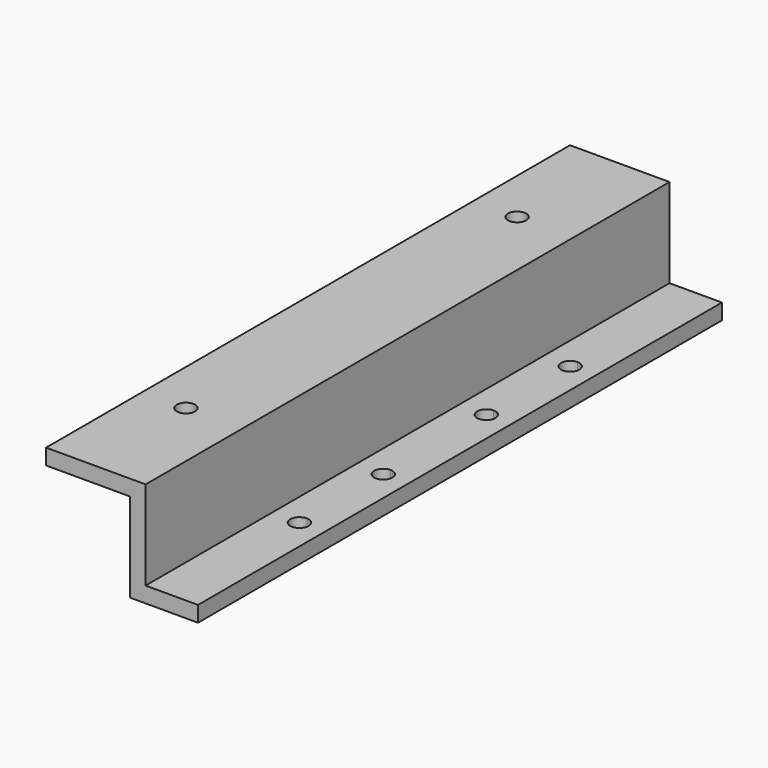
from build123d import *

# Parameters (mm, degrees)
F3_DEPTH = 3
F4_DEPTH = 3
F0_W     = 1
F0_H     = 3
F5_DEPTH = 125
F7_DEPTH = 3


with BuildPart() as f3:
    # F1 (on Top) → F3 (new body)
    with BuildSketch(Plane.XY):
        Polygon((-19, 0), (-2.7684667148, 0), (-2.7684667148, 125), (-19, 125), (-19, 102), (-19, 23), align=None)
        with BuildLine():
            ThreePointArc((-8.95, 23), (-10.7, 21.25), (-12.45, 23))
            ThreePointArc((-12.45, 23), (-10.7, 24.75), (-8.95, 23))
        make_face(mode=Mode.SUBTRACT)
        with BuildLine():
            ThreePointArc((-8.95, 102), (-10.7, 100.25), (-12.45, 102))
            ThreePointArc((-12.45, 102), (-10.7, 103.75), (-8.95, 102))
        make_face(mode=Mode.SUBTRACT)
    extrude(amount=F3_DEPTH)

    # F2 (on Right) → F4 (join)
    with BuildSketch(Plane.YZ):
        Polygon((0, 3), (0, 0), (0, -17), (125, -17), (125, 3), align=None)
    extrude(amount=-F4_DEPTH)

    # F0 (on Front) → F5 (join)
    with BuildSketch(Plane.XZ):
        with Locations((0.5, -15.5)):
            Rectangle(F0_W, F0_H)
    extrude(amount=-F5_DEPTH)

    # F6 (on face) → F7 (join)
    with BuildSketch(Plane.XY.offset(-14)):
        with BuildLine():
            Line((1, 125), (1, 0))
            Line((1, 0), (5.2, 0))
            Line((5.2, 0), (5.2, 28.45))
            ThreePointArc((5.2, 28.45), (3.45, 30.2), (5.2, 31.95))
            Line((5.2, 31.95), (5.2, 48.45))
            ThreePointArc((5.2, 48.45), (3.45, 50.2), (5.2, 51.95))
            Line((5.2, 51.95), (5.2, 73.05))
            ThreePointArc((5.2, 73.05), (3.45, 74.8), (5.2, 76.55))
            Line((5.2, 76.55), (5.2, 93.05))
            ThreePointArc((5.2, 93.05), (3.45, 94.8), (5.2, 96.55))
            Line((5.2, 96.55), (5.2, 125))
            Line((5.2, 125), (1, 125))
        make_face()
        with BuildLine():
            Line((5.2, 28.45), (5.2, 0))
            Line((5.2, 0), (10, 0))
            Line((10, 0), (10, 125))
            Line((10, 125), (6.2, 125))
            Line((6.2, 125), (5.2, 125))
            Line((5.2, 125), (5.2, 96.55))
            ThreePointArc((5.2, 96.55), (6.4374368671, 96.0374368671), (6.95, 94.8))
            ThreePointArc((6.95, 94.8), (6.4374368671, 93.5625631329), (5.2, 93.05))
            Line((5.2, 93.05), (5.2, 76.55))
            ThreePointArc((5.2, 76.55), (6.4374368671, 76.0374368671), (6.95, 74.8))
            ThreePointArc((6.95, 74.8), (6.4374368671, 73.5625631329), (5.2, 73.05))
            Line((5.2, 73.05), (5.2, 51.95))
            ThreePointArc((5.2, 51.95), (6.4374368671, 51.4374368671), (6.95, 50.2))
            ThreePointArc((6.95, 50.2), (6.4374368671, 48.9625631329), (5.2, 48.45))
            Line((5.2, 48.45), (5.2, 31.95))
            ThreePointArc((5.2, 31.95), (6.4374368671, 31.4374368671), (6.95, 30.2))
            ThreePointArc((6.95, 30.2), (6.4374368671, 28.9625631329), (5.2, 28.45))
        make_face()
    extrude(amount=-F7_DEPTH)


solid = f3.part
